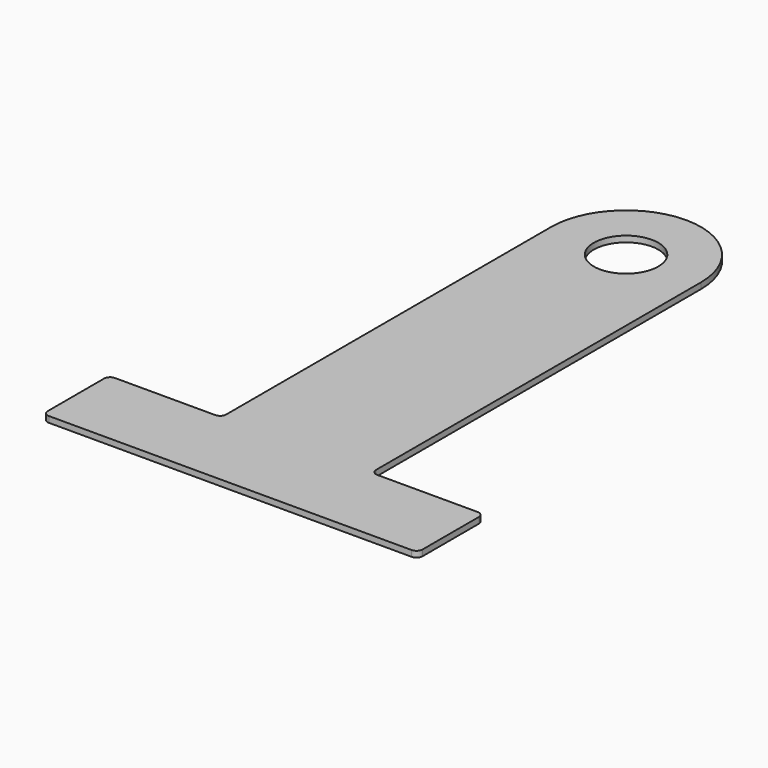
from build123d import *

# Parameters (mm, degrees)
F1_DEPTH = 0.508
F2_R     = 2.7305
F3_DEPTH = 0.509
F4_R     = 0.508


with BuildPart() as f1:
    # F0 (on Top) → F1 (new body)
    with BuildSketch(Plane.XY):
        with BuildLine():
            Line((-15.875, 0), (0, 0))
            Line((0, 0), (15.875, 0))
            Line((15.875, 0), (15.875, 6.985))
            Line((15.875, 6.985), (6.35, 6.985))
            Line((6.35, 6.985), (6.35, 41.91))
            ThreePointArc((6.35, 41.91), (4.490128, 46.400128), (0, 48.26))
            ThreePointArc((0, 48.26), (-4.490128, 46.400128), (-6.35, 41.91))
            Line((-6.35, 41.91), (-6.35, 6.985))
            Line((-6.35, 6.985), (-15.875, 6.985))
            Line((-15.875, 6.985), (-15.875, 0))
        make_face()
    extrude(amount=F1_DEPTH)

    # F2 (on face) → F3 (cut, through all)
    with BuildSketch(Plane.XY.offset(0.508)):
        with Locations((0, 41.91)):
            Circle(F2_R)
    extrude(amount=-F3_DEPTH, mode=Mode.SUBTRACT)

    # F4
    f4_edges = [f1.edges().sort_by_distance(p)[0] for p in [
        (-15.875, 0, 0.254),
        (-15.875, 6.985, 0.254),
        (15.875, 6.985, 0.254),
        (15.875, 0, 0.254),
        (6.35, 6.985, 0.254),
        (-6.35, 6.985, 0.254),
    ]]
    fillet(f4_edges, radius=F4_R)


solid = f1.part
